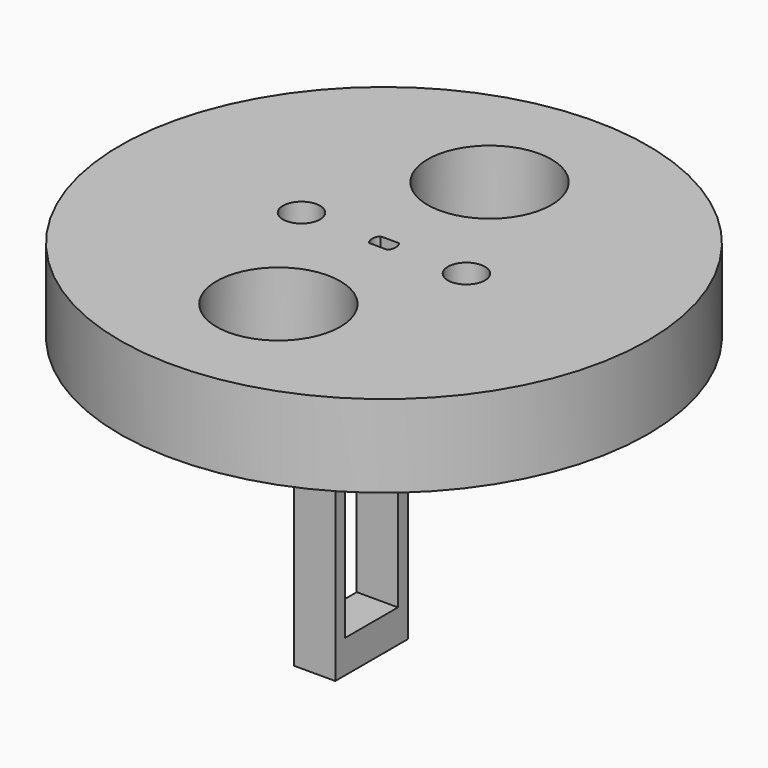
from build123d import *

# Parameters (mm, degrees)
SKETCH004_R     = 64.00438
PAD_DEPTH       = 20
SKETCH006_R     = 4.5
POCKET_DEPTH    = 20
SKETCH005_R     = 4.5
POCKET001_DEPTH = 20
SKETCH007_W     = 10
SKETCH007_H     = 22
PAD001_DEPTH    = 70
SKETCH_W        = 16
SKETCH_H        = 40.7
POCKET002_DEPTH = 10
POCKET003_DEPTH = 20
SKETCH008_R     = 15
POCKET004_DEPTH = 20
SKETCH011_R     = 15
POCKET005_DEPTH = 20


with BuildPart() as part:
    # Sketch004 → Pad (new body)
    with BuildSketch(Plane.XY):
        Circle(SKETCH004_R)
    extrude(amount=PAD_DEPTH)

    # Sketch006 → Pocket (cut)
    with BuildSketch(Plane.XY):
        with Locations((20, 0)):
            Circle(SKETCH006_R)
    extrude(amount=POCKET_DEPTH, mode=Mode.SUBTRACT)

    # Sketch005 → Pocket001 (cut)
    with BuildSketch(Plane.XY):
        with Locations((-20, 0)):
            Circle(SKETCH005_R)
    extrude(amount=POCKET001_DEPTH, mode=Mode.SUBTRACT)

    # Sketch007 → Pad001 (join)
    with BuildSketch(Plane.XY):
        with Locations((-8, 0)):
            Rectangle(SKETCH007_W, SKETCH007_H)
    extrude(amount=-PAD001_DEPTH)

    # Sketch (on Face7 of Pad001) → Pocket002 (cut)
    with BuildSketch(Plane.YZ.offset(-3)):
        with Locations((0, -41.65)):
            Rectangle(SKETCH_W, SKETCH_H)
    extrude(amount=-POCKET002_DEPTH, mode=Mode.SUBTRACT)

    # Sketch001 → Pocket003 (cut)
    with BuildSketch(Plane.XY):
        with BuildLine():
            Line((-2.25, 1.75), (2.25, 1.75))
            ThreePointArc((2.25, -1.75), (2.850439, 0), (2.25, 1.75))
            Line((-2.25, -1.75), (2.25, -1.75))
            ThreePointArc((-2.25, 1.75), (-2.850439, 0), (-2.25, -1.75))
        make_face()
    extrude(amount=POCKET003_DEPTH, mode=Mode.SUBTRACT)

    # Sketch008 → Pocket004 (cut)
    with BuildSketch(Plane.XY):
        with Locations((0, 32)):
            Circle(SKETCH008_R)
    extrude(amount=POCKET004_DEPTH, mode=Mode.SUBTRACT)

    # Sketch011 → Pocket005 (cut)
    with BuildSketch(Plane.XY):
        with Locations((0, -32)):
            Circle(SKETCH011_R)
    extrude(amount=POCKET005_DEPTH, mode=Mode.SUBTRACT)


solid = part.part
